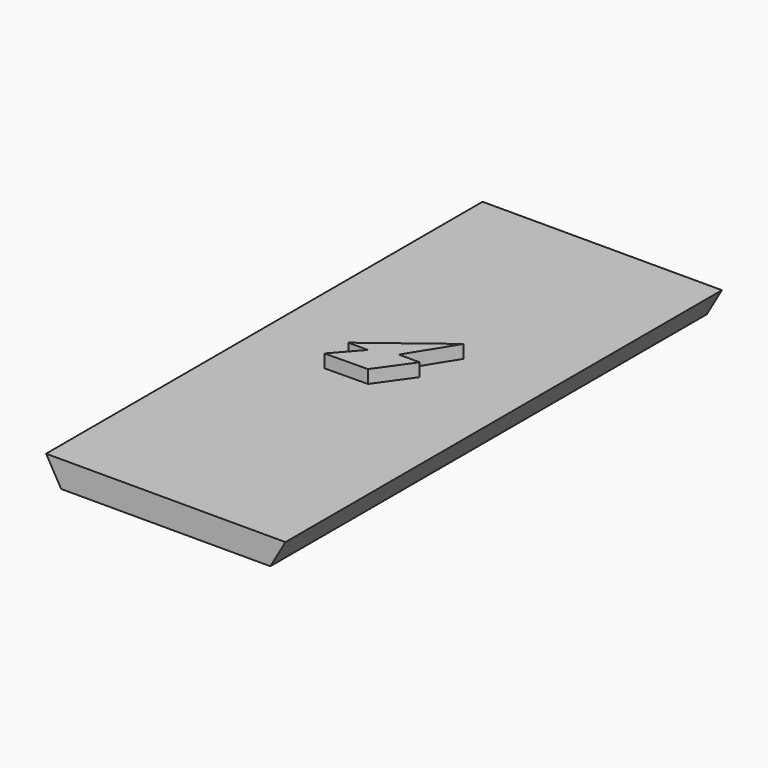
from build123d import *

# Parameters (mm, degrees)
F1_DEPTH  = 125
F2_R      = 1.85
F3_DEPTH  = 4
F5_DEPTH  = 3
F7_R      = 6
F8_DEPTH  = 25
F10_R     = 6
F11_DEPTH = 25


with BuildPart() as f1:
    # F0 (on Front) → F1 (new body)
    with BuildSketch(Plane.XZ):
        Polygon((27.424138, 47.5), (-27.424138, 47.5), (-23.960036, 41.5), (23.960036, 41.5), align=None)
    extrude(amount=F1_DEPTH)

    # F2 (on face) → F3 (cut)
    with BuildSketch(Plane(origin=(0, 0, 41.5), x_dir=(1, 0, 0), z_dir=(0, 0, -1))):
        with BuildLine():
            ThreePointArc((-13.830018, 120), (-11.980018, 118.15), (-10.130018, 120))
            Line((-10.130018, 120), (-13.830018, 120))
        make_face()
        with BuildLine():
            Line((-13.830018, 120), (-10.130018, 120))
            ThreePointArc((-10.130018, 120), (-11.980018, 121.85), (-13.830018, 120))
        make_face()
        with Locations((11.980018, 120)):
            Circle(F2_R)
        with BuildLine():
            ThreePointArc((-13.830018, 23), (-11.980018, 21.15), (-10.130018, 23))
            Line((-10.130018, 23), (-13.830018, 23))
        make_face()
        with BuildLine():
            Line((-13.830018, 23), (-10.130018, 23))
            ThreePointArc((-10.130018, 23), (-11.980018, 24.85), (-13.830018, 23))
        make_face()
        with Locations((11.980018, 23)):
            Circle(F2_R)
    extrude(amount=-F3_DEPTH, mode=Mode.SUBTRACT)

    # F4 (on face) → F5 (join)
    with BuildSketch(Plane.XY.offset(47.5)):
        Polygon((-3.973212, -62.142442), (-9.196524, -68.068704), (0.688378, -67.934791), (6.248204, -60.093163), (1.484625, -60.093163), (7.940114, -49.645284), (-8.473853, -62.142442), align=None)
    extrude(amount=F5_DEPTH)

    # F7 (on face) → F8 (cut)
    with BuildSketch(Plane(origin=(-23.960036, 0, 41.5), x_dir=(0.866025, 0, 0.5), z_dir=(0.5, 0, -0.866025))):
        with Locations((0, 62.5)):
            Circle(F7_R)
    extrude(amount=F8_DEPTH, mode=Mode.SUBTRACT)

    # F10 (on face) → F11 (cut)
    with BuildSketch(Plane(origin=(23.960036, 0, 41.5), x_dir=(0.866025, 0, -0.5), z_dir=(0.5, 0, 0.866025))):
        with Locations((0, -62.5)):
            Circle(F10_R)
    extrude(amount=-F11_DEPTH, mode=Mode.SUBTRACT)


solid = f1.part
